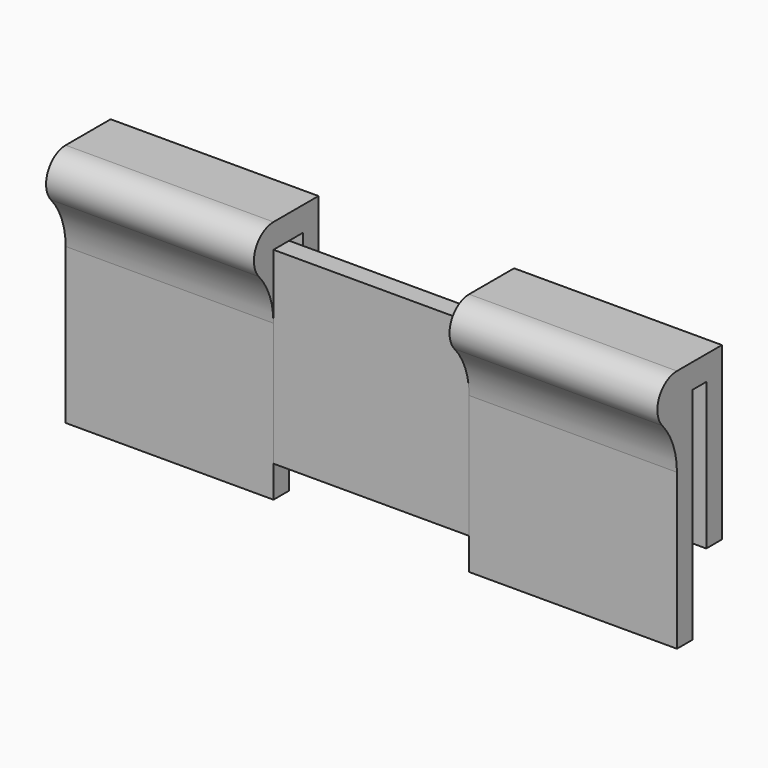
from build123d import *

# Parameters (mm, degrees)
F1_DEPTH = 12.5
F2_W     = 8
F2_H     = 1
F2_H_2   = 1.3
F3_DEPTH = 2.301
F4_W     = 8
F4_H     = 0.8
F4_H_2   = 1.117703
F5_DEPTH = 10.001
F6_R     = 3


with BuildPart() as f1:
    # F0 (on Right) → F1 (new body, symmetric)
    with BuildSketch(Plane.YZ):
        with BuildLine():
            Line((2.3, -7), (2.3, 0))
            Line((2.3, 0), (0, 0))
            ThreePointArc((0, 0), (-1, -1), (0, -2))
            Line((0, -2), (0, -10))
            Line((0, -10), (0.8, -10))
            Line((0.8, -10), (0.8, -1))
            Line((0.8, -1), (1.5, -1))
            Line((1.5, -1), (1.5, -7))
            Line((1.5, -7), (2.3, -7))
        make_face()
    extrude(amount=F1_DEPTH, both=True)

    # F2 (on Front) → F3 (cut, through all)
    with BuildSketch(Plane.XZ):
        with Locations((0, -0.5)):
            Rectangle(F2_W, F2_H)
        with Locations((0, -9.35)):
            Rectangle(F2_W, F2_H_2)
    extrude(amount=-F3_DEPTH, mode=Mode.SUBTRACT)

    # F4 (on Top) → F5 (cut, through all)
    with BuildSketch(Plane.XY):
        with Locations((0, 1.9)):
            Rectangle(F4_W, F4_H)
        with Locations((0, -0.558851)):
            Rectangle(F4_W, F4_H_2)
    extrude(amount=-F5_DEPTH, mode=Mode.SUBTRACT)

    # F6
    f6_edges = [f1.edges().sort_by_distance(p)[0] for p in [
        (8.25, 0, -2),
        (-8.25, 0, -2),
    ]]
    fillet(f6_edges, radius=F6_R)


solid = f1.part
